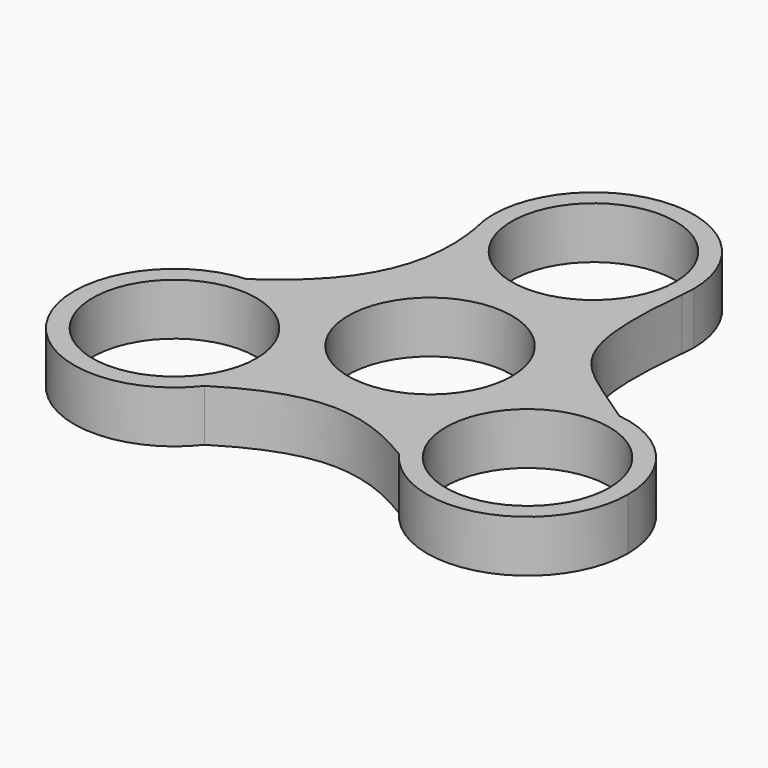
from build123d import *

# Parameters (mm, degrees)
F0_R     = 11.05
F0_R_2   = 13.55
F1_DEPTH = 7


with BuildPart() as f1:
    # F0 (on Top) → F1 (new body)
    with BuildSketch(Plane.XY):
        with BuildLine():
            ThreePointArc((-10.021513, -13.654951), (-14.364957, -3.713029), (-24.610712, -0.14486))
            ThreePointArc((-24.610712, -0.14486), (-35.500503, -20.081591), (-12.860881, -21.954642))
            ThreePointArc((-12.860881, -21.954642), (-10.750991, -18.04092), (-10.021513, -13.654951))
        make_face()
        with Locations((-23.571513, -13.654951)):
            Circle(F0_R, mode=Mode.SUBTRACT)
        with BuildLine():
            ThreePointArc((13.423732, 25.728168), (13.518396, 26.648767), (13.55, 27.573681))
            ThreePointArc((13.55, 27.573681), (-0.81156, 41.099355), (-13.452785, 25.953474))
            add(Edge.make_bspline(
                [(-13.036801, 23.87986), (-13.14978, 24.554538), (-13.288064, 25.245532), (-13.452785, 25.953474)],
                knots=[26.868894, 26.868894, 26.868894, 26.868894, 28.383488, 28.383488, 28.383488, 28.383488], degree=3))
            ThreePointArc((-13.036801, 23.87986), (0.944187, 14.056617), (13.423732, 25.728168))
        make_face()
        with Locations((0, 27.573681)):
            Circle(F0_R, mode=Mode.SUBTRACT)
        with BuildLine():
            ThreePointArc((37.469286, -13.454165), (34.0534, -4.459598), (25.527997, 0))
            ThreePointArc((25.527997, 0), (12.257933, -6.553778), (12.900423, -21.340049))
            ThreePointArc((12.900423, -21.340049), (28.060355, -26.355872), (37.469286, -13.454165))
        make_face()
        with Locations((23.919286, -13.454165)):
            Circle(F0_R, mode=Mode.SUBTRACT)
        with BuildLine():
            add(Edge.make_bspline(
                [(13.423732, 25.728168), (11.58878, 7.021586), (15.626226, 7.021586), (25.527997, 0)],
                knots=[0, 0, 0, 0, 28.433288, 28.433288, 28.433288, 28.433288], degree=3))
            ThreePointArc((13.423732, 25.728168), (0.944187, 14.056617), (-13.036801, 23.87986))
            add(Edge.make_bspline(
                [(-24.610712, -0.14486), (-16.992516, 5.077212), (-11.032568, 11.911073), (-13.036801, 23.87986)],
                knots=[0, 0, 0, 0, 26.868894, 26.868894, 26.868894, 26.868894], degree=3))
            ThreePointArc((-24.610712, -0.14486), (-14.364957, -3.713029), (-10.021513, -13.654951))
            ThreePointArc((-10.021513, -13.654951), (-10.750991, -18.04092), (-12.860881, -21.954642))
            add(Edge.make_bspline(
                [(-12.860881, -21.954642), (-2.93959, -15.780944), (3.867878, -15.780944), (12.900423, -21.340049)],
                knots=[0, 0, 0, 0, 25.768635, 25.768635, 25.768635, 25.768635], degree=3))
            ThreePointArc((12.900423, -21.340049), (12.257933, -6.553778), (25.527997, 0))
        make_face()
        Circle(F0_R_2, mode=Mode.SUBTRACT)
        Circle(F0_R_2)
        Circle(F0_R, mode=Mode.SUBTRACT)
    extrude(amount=F1_DEPTH)


solid = f1.part
